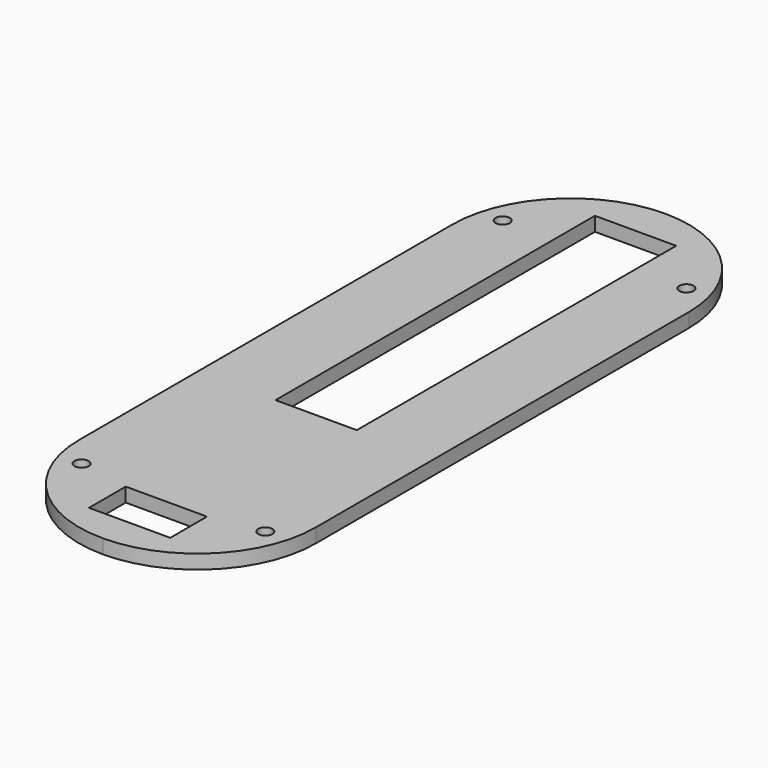
from build123d import *

# Parameters (mm, degrees)
F1_DEPTH = 2
F2_R     = 1
F3_DEPTH = 2.001
F4_W     = 11.5
F4_H     = 56.5
F4_H_2   = 6.5
F5_DEPTH = 2.001
F6_W     = 15
F6_H     = 15
F7_DEPTH = 3
F8_SIZE  = 2


with BuildPart() as f1:
    # F0 (on Top) → F1 (new body)
    with BuildSketch(Plane.XY):
        with BuildLine():
            Line((16.75, -33), (16.75, 33))
            ThreePointArc((16.75, 33), (11.844039, 44.844039), (0, 49.75))
            ThreePointArc((0, 49.75), (-11.844039, 44.844039), (-16.75, 33))
            Line((-16.75, 33), (-16.75, -33))
            ThreePointArc((-16.75, -33), (-11.844039, -44.844039), (0, -49.75))
            ThreePointArc((0, -49.75), (11.844039, -44.844039), (16.75, -33))
        make_face()
    extrude(amount=F1_DEPTH)

    # F2 (on face) → F3 (cut, through all)
    with BuildSketch(Plane.XY.offset(2)):
        with Locations((-13, -37.25)):
            Circle(F2_R)
        with Locations((13, -37.25)):
            Circle(F2_R)
        with Locations((13, 37.25)):
            Circle(F2_R)
        with Locations((-13, 37.25)):
            Circle(F2_R)
    extrude(amount=-F3_DEPTH, mode=Mode.SUBTRACT)

    # F4 (on face) → F5 (cut, through all)
    with BuildSketch(Plane.XY.offset(2)):
        with Locations((0, 16.25)):
            Rectangle(F4_W, F4_H)
        with Locations((0, -41.75)):
            Rectangle(F4_W, F4_H_2)
    extrude(amount=-F5_DEPTH, mode=Mode.SUBTRACT)

    # F6 (on face) → F7 (join)
    with BuildSketch(Plane(origin=(0, 0, 0), x_dir=(1, 0, 0), z_dir=(0, 0, -1))):
        with Locations((0, 26)):
            Rectangle(F6_W, F6_H)
    extrude(amount=F7_DEPTH)

    # F8
    f8_edges = [f1.edges().sort_by_distance(p)[0] for p in [
        (0, -33.5, -3),
        (-7.5, -26, -3),
        (0, -18.5, -3),
        (7.5, -26, -3),
    ]]
    chamfer(f8_edges, length=F8_SIZE)


solid = f1.part
